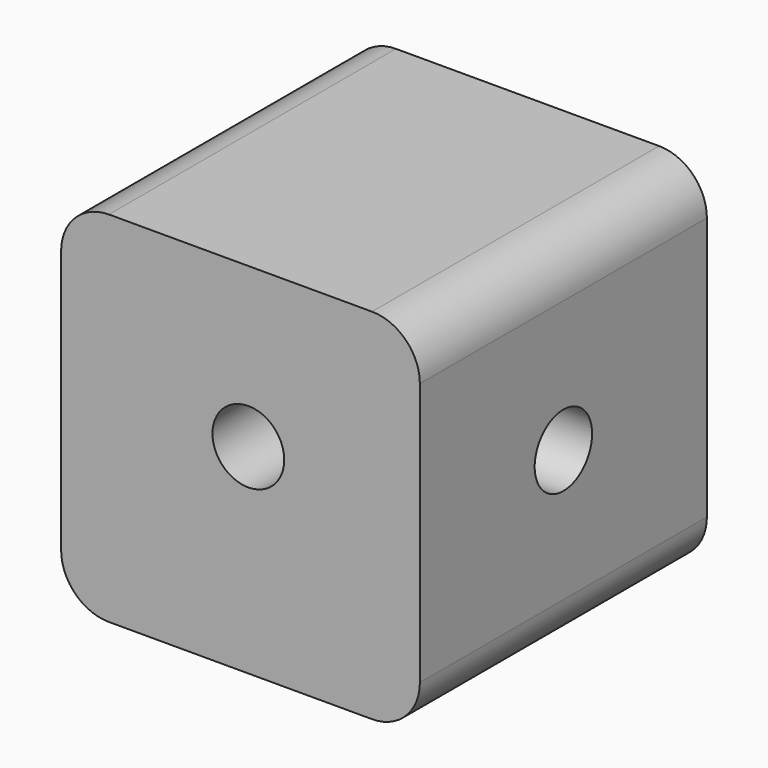
from build123d import *

# Parameters (mm, degrees)
F1_DEPTH = 150
F3_D     = 30
F4_R     = 15
F5_DEPTH = 150


with BuildPart() as f1:
    # F0 (on Front) → F1 (new body)
    with BuildSketch(Plane.XZ):
        with BuildLine():
            ThreePointArc((75, 55), (69.142136, 69.142136), (55, 75))
            Line((55, 75), (-55, 75))
            ThreePointArc((-55, 75), (-69.142136, 69.142136), (-75, 55))
            Line((-75, 55), (-75, -55))
            ThreePointArc((-75, -55), (-69.142136, -69.142136), (-55, -75))
            Line((-55, -75), (55, -75))
            ThreePointArc((55, -75), (69.142136, -69.142136), (75, -55))
            Line((75, -55), (75, 55))
        make_face()
    extrude(amount=F1_DEPTH)

    # F3 (through all)
    with Locations(Plane.XZ.offset(150)):
        with Locations((3.283451, 8.47559)):
            Hole(F3_D / 2)

    # F4 (on face) → F5 (cut)
    with BuildSketch(Plane.YZ.offset(75)):
        with Locations((-75, 0)):
            Circle(F4_R)
    extrude(amount=-F5_DEPTH, mode=Mode.SUBTRACT)


solid = f1.part
